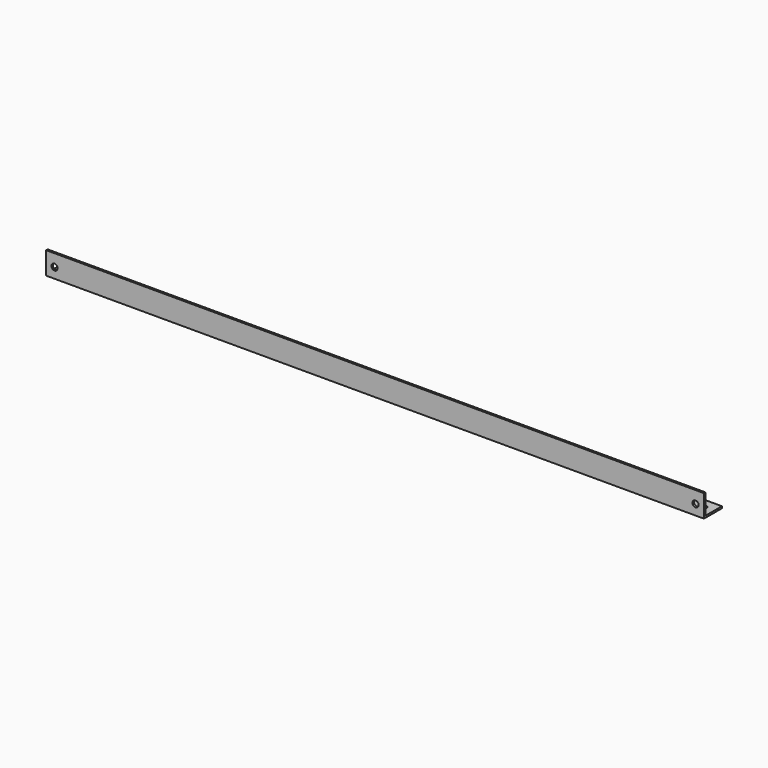
from build123d import *

# Parameters (mm, degrees)
F1_DEPTH = 558.8
F2_R     = 2.6162
F4_DEPTH = 25.4
F3_R     = 2.6162
F5_DEPTH = 25.4


with BuildPart() as f1:
    # F0 (on Right) → F1 (new body)
    with BuildSketch(Plane.YZ):
        Polygon((0, -17.4625), (0, 0), (-1.5875, 0), (-1.5875, -19.05), (17.4625, -19.05), (17.4625, -17.4625), align=None)
    extrude(amount=-F1_DEPTH)

    # F2 (on face) → F4 (cut)
    with BuildSketch(Plane(origin=(0, 0, 0), x_dir=(-1, 0, 0), z_dir=(0, 1, 0))):
        with Locations((7.1501, -10.3251)):
            Circle(F2_R)
        with Locations((551.6499, -10.3251)):
            Circle(F2_R)
    extrude(amount=-F4_DEPTH, mode=Mode.SUBTRACT)

    # F3 (on face) → F5 (cut)
    with BuildSketch(Plane.XY.offset(-17.4625)):
        with Locations((-8.73125, 8.73125)):
            Circle(F3_R)
        with Locations((-550.06875, 8.73125)):
            Circle(F3_R)
        with Locations((-50.8, 8.73125)):
            Circle(F3_R)
        with Locations((-127, 8.73125)):
            Circle(F3_R)
        with Locations((-203.2, 8.73125)):
            Circle(F3_R)
        with Locations((-279.4, 8.73125)):
            Circle(F3_R)
        with Locations((-355.6, 8.73125)):
            Circle(F3_R)
        with Locations((-431.8, 8.73125)):
            Circle(F3_R)
        with Locations((-508, 8.73125)):
            Circle(F3_R)
    extrude(amount=-F5_DEPTH, mode=Mode.SUBTRACT)


solid = f1.part
